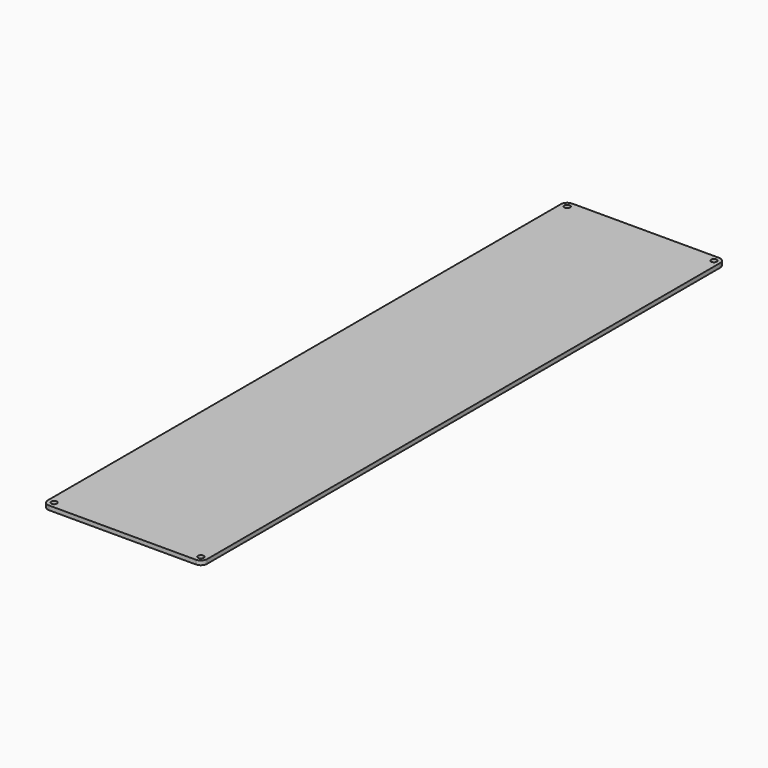
from build123d import *

# Parameters (mm, degrees)
F0_W     = 120.65
F0_H     = 495.3
F0_R     = 2.15265
F1_DEPTH = 3.175
F2_R     = 4.7625


with BuildPart() as f1:
    # F0 (on Top) → F1 (new body)
    with BuildSketch(Plane.XY):
        Rectangle(F0_W, F0_H)
        with Locations((-55.5625, -242.8875)):
            Circle(F0_R, mode=Mode.SUBTRACT)
        with Locations((55.5625, -242.8875)):
            Circle(F0_R, mode=Mode.SUBTRACT)
        with Locations((-55.5625, 242.8875)):
            Circle(F0_R, mode=Mode.SUBTRACT)
        with Locations((55.5625, 242.8875)):
            Circle(F0_R, mode=Mode.SUBTRACT)
    extrude(amount=F1_DEPTH)

    # F2
    f2_edges = [f1.edges().sort_by_distance(p)[0] for p in [
        (-60.325, 247.65, 1.5875),
        (60.325, 247.65, 1.5875),
        (60.325, -247.65, 1.5875),
        (-60.325, -247.65, 1.5875),
    ]]
    fillet(f2_edges, radius=F2_R)


solid = f1.part
